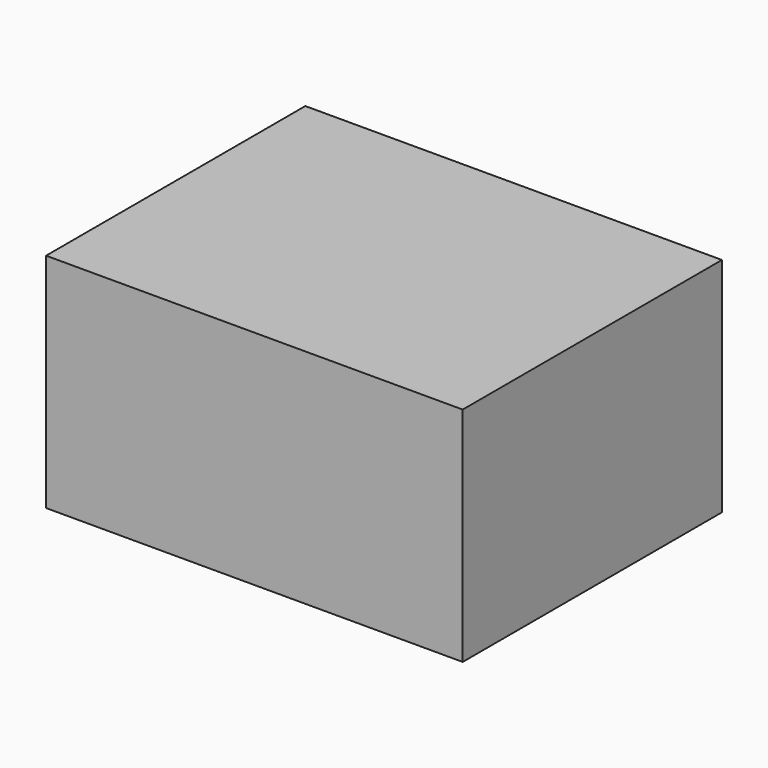
from build123d import *

# Parameters (mm, degrees)
F0_W     = 285.75
F0_H     = 222.25
F1_DEPTH = 76.2
F2_W     = 279.4
F2_H     = 215.9
F3_DEPTH = 69.85


with BuildPart() as f1:
    # F0 (on Top) → F1 (new body, symmetric)
    with BuildSketch(Plane.XY):
        with Locations((142.875, 111.125)):
            Rectangle(F0_W, F0_H)
    extrude(amount=F1_DEPTH, both=True)

    # F2 (on Top) → F3 (cut, symmetric)
    with BuildSketch(Plane.XY):
        with Locations((142.875, 111.125)):
            Rectangle(F2_W, F2_H)
    extrude(amount=F3_DEPTH, both=True, mode=Mode.SUBTRACT)


solid = f1.part
